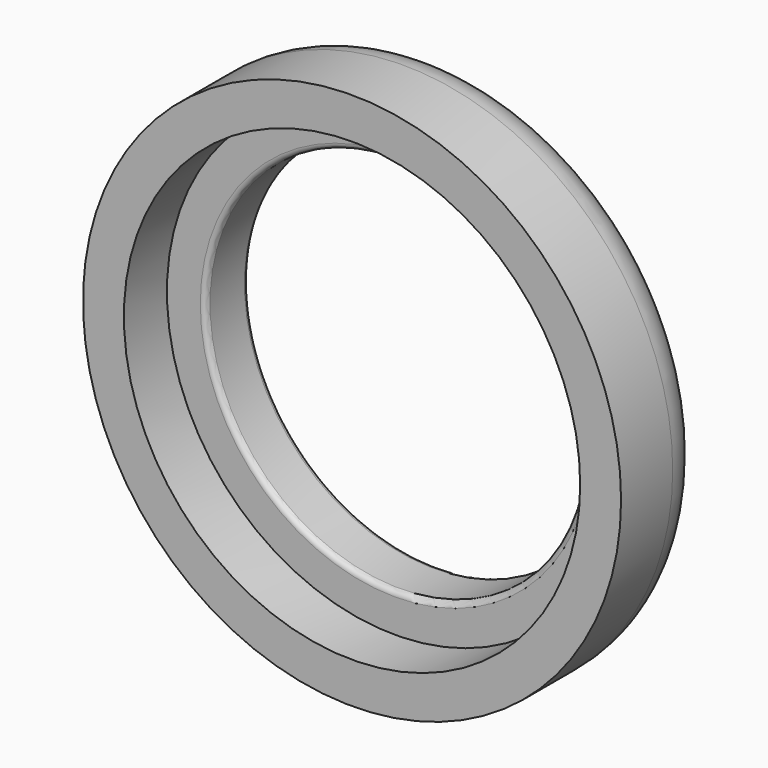
from build123d import *

# Parameters (mm, degrees)
F0_R     = 25
F0_R_2   = 21.2
F1_DEPTH = 5


with BuildPart() as f1:
    # F0 (on Front) → F1 (new body)
    with BuildSketch(Plane.XZ):
        Circle(F0_R)
        Circle(F0_R_2, mode=Mode.SUBTRACT)
    extrude(amount=F1_DEPTH)

    # F2 (on Top) → F3 (revolve)
    with BuildSketch(Plane.XY):
        with BuildLine():
            Line((17.6, 4.5), (17.6, 0.5))
            ThreePointArc((17.6, 0.5), (17.746447, 0.146447), (18.1, 0))
            Line((18.1, 0), (25, 0))
            Line((25, 0), (25, 1))
            ThreePointArc((25, 1), (23.828427, 3.828427), (21, 5))
            Line((21, 5), (18.1, 5))
            ThreePointArc((18.1, 5), (17.746447, 4.853553), (17.6, 4.5))
        make_face()
    revolve(axis=Axis((0, 0, 0), (0, -1, 0)))


solid = f1.part
